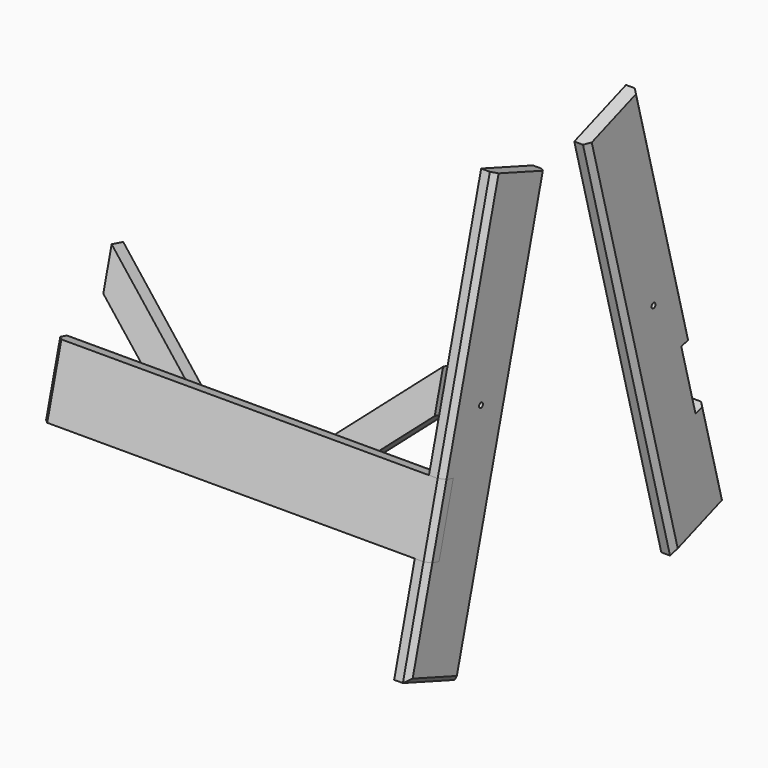
from build123d import *

# Parameters (mm, degrees)
F0_R      = 3.13175
F1_DEPTH  = 17.4625
F3_DEPTH  = 492.125
F4_SIZE   = 6.35
F4_2_SIZE = 6.35
F6_DEPTH  = 19.05


with BuildPart() as f1:
    # F0 (on Right) → F1 (new body)
    with BuildSketch(Plane.YZ):
        Polygon((104.364186, 220.817649), (22.003868, 250.794353), (-61.109397, -59.388579), (-44.241918, -63.908207), (-66.840055, -148.245605), (-83.707535, -143.725978), (-116.577554, -266.398558), (-34.217236, -296.375262), align=None)
        Circle(F0_R, mode=Mode.SUBTRACT)
        Polygon((252.661457, 250.794353), (170.30114, 220.817649), (308.882562, -296.375262), (391.24288, -266.398558), (358.372861, -143.725978), (341.505381, -148.245605), (318.907244, -63.908207), (335.774723, -59.388579), align=None)
        with Locations((274.665326, 0)):
            Circle(F0_R, mode=Mode.SUBTRACT)
        Polygon((104.364186, 220.817649), (22.003868, 250.794353), (-61.109397, -59.388579), (-44.241918, -63.908207), (-66.840055, -148.245605), (-83.707535, -143.725978), (-116.577554, -266.398558), (-34.217236, -296.375262), align=None)
        Circle(F0_R, mode=Mode.SUBTRACT)
    extrude(amount=F1_DEPTH)

    # F4#2
    f4_2_edges = [f1.edges().sort_by_distance(p)[0] for p in [
        (17.4625, -19.552765, 95.702887),
        (17.4625, 35.073475, -37.778806),
        (17.4625, -100.142545, -205.062268),
        (17.4625, -75.397395, -281.38691),
        (17.4625, 239.591851, -37.778806),
        (17.4625, 294.21809, 95.702887),
        (17.4625, 374.80787, -205.062268),
        (17.4625, 350.062721, -281.38691),
    ]]
    chamfer(f4_2_edges, length=F4_2_SIZE)


with BuildPart() as f3:
    # F2 (on face) → F3 (new body)
    with BuildSketch(Plane.YZ.offset(17.4625)):
        Polygon((-66.840055, -148.245605), (-44.241918, -63.908207), (-46.147437, -63.397624), (-61.109397, -59.388579), (-83.707535, -143.725978), align=None)
    extrude(amount=-F3_DEPTH)

    # F4
    f4_edges = [f3.edges().sort_by_distance(p)[0] for p in [
        (17.4625, -72.408466, -101.557278),
        (-474.6625, -72.408466, -101.557278),
    ]]
    chamfer(f4_edges, length=F4_SIZE)


with BuildPart() as f6:
    # F5 (on face) → F6 (new body)
    with BuildSketch(Plane(origin=(0, -25.30122, 6.779441), x_dir=(-1, 0, 0), z_dir=(0, 0.965926, -0.258819))):
        Polygon((17.4625, 32.978135), (17.4625, -18.698484), (172.204866, -160.493738), (228.6, -160.493738), align=None)
        Polygon((439.7375, 32.978135), (228.6, -160.493738), (284.995134, -160.493738), (439.7375, -18.698484), align=None)
    extrude(amount=F6_DEPTH)


solid = Compound([f1.part, f3.part, f6.part])
